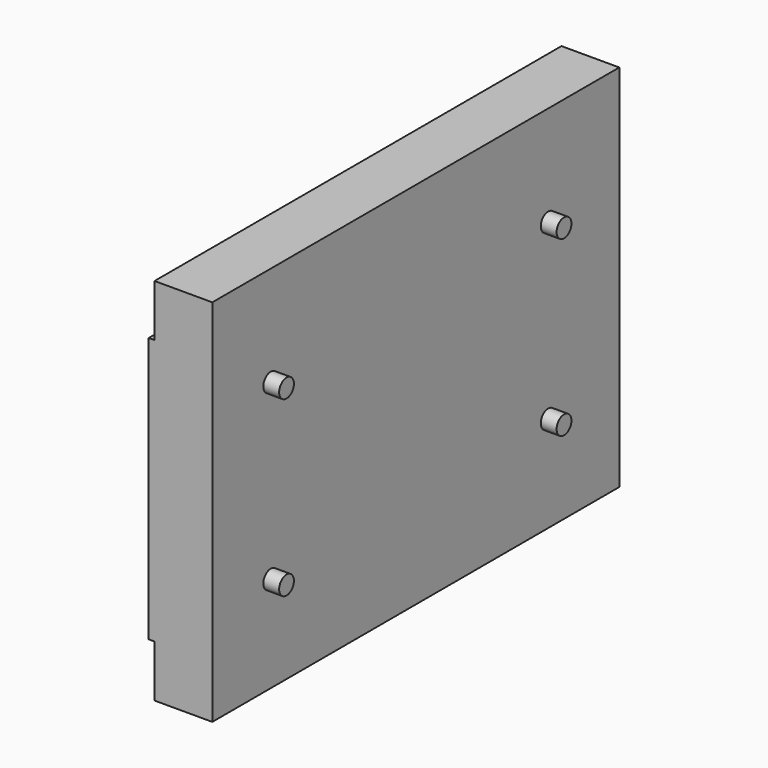
from build123d import *

# Parameters (mm, degrees)
EXTRUDE_DEPTH                  = 88
EXTRUDE_ONTO_SKETCH_ROLL_ANGLE = 90
SKETCH001_R                    = 1.6
EXTRUDE001_DEPTH               = 18


with BuildPart() as extrude_body:
    # Sketch as drawn → Extrude (new)
    with BuildSketch(Plane.XY):
        Polygon((40.130428, 23.337914), (40.130428, 69.237914), (41.130428, 69.237914), (41.130428, 78.237914), (51.130428, 78.237914), (51.130428, 14.337914), (41.130428, 14.337914), (41.130428, 23.337914), align=None)
    extrude(amount=EXTRUDE_DEPTH)


with BuildPart() as extrude_body_1:
    # Extrude onto Sketch roll: moved
    add(extrude_body.part.rotate(Axis((0, 0, 0), (1, 0, 0)), EXTRUDE_ONTO_SKETCH_ROLL_ANGLE))


with BuildPart() as extrude_body_2:
    # Extrude onto Sketch placement: moved
    add(extrude_body_1.part.moved(Location((40.130428, 23.337914, 0))))


with BuildPart() as extrude_body_3:
    # Extrude placement: moved
    add(extrude_body_2.part.moved(Location((-76, 0, 0))))


with BuildPart() as extrude001:
    # Sketch001 → Extrude001 (new body)
    with BuildSketch(Plane.YZ):
        with Locations((-52.03456, 60.943519)):
            Circle(SKETCH001_R)
        with Locations((7.96544, 60.943519)):
            Circle(SKETCH001_R)
        with Locations((-52.03456, 30.943519)):
            Circle(SKETCH001_R)
        with Locations((7.96544, 30.943519)):
            Circle(SKETCH001_R)
    extrude(amount=EXTRUDE001_DEPTH)


solid = Compound([extrude_body_3.part, extrude001.part])
